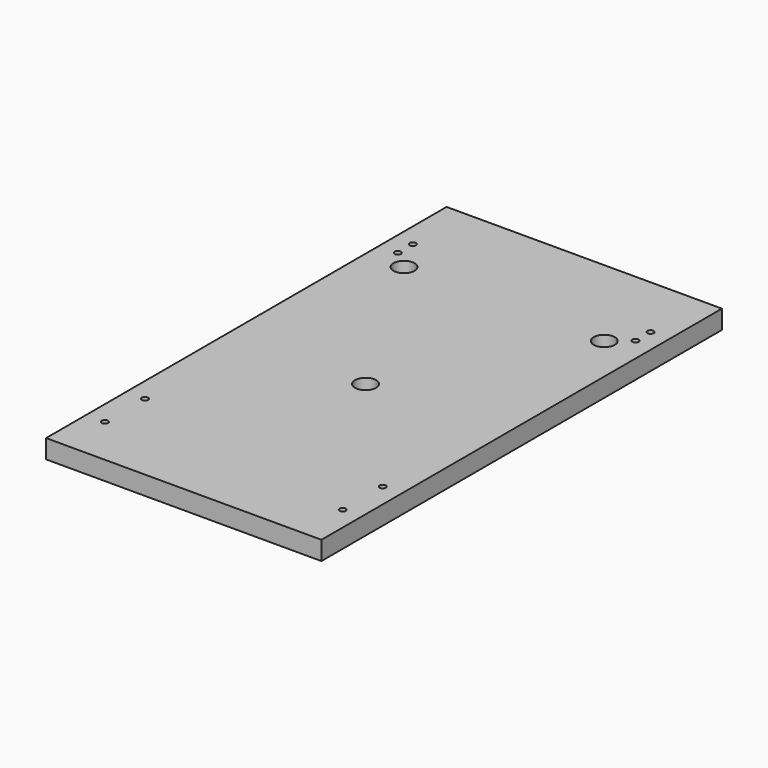
from build123d import *

# Parameters (mm, degrees)
F0_W     = 279.4
F0_H     = 508
F1_DEPTH = 19.05
F2_D     = 6.35
F3_D     = 6.35
F4_D     = 21.336


with BuildPart() as f1:
    # F0 (on Top) → F1 (new body)
    with BuildSketch(Plane.XY):
        with Locations((139.7, 254)):
            Rectangle(F0_W, F0_H)
    extrude(amount=F1_DEPTH)

    # F2 (through all)
    with Locations(Plane(origin=(0, 0, 0), x_dir=(1, 0, 0), z_dir=(0, 0, -1))):
        with Locations((19.05, -101.6), (260.35, -101.6), (260.35, -50.8), (19.05, -50.8)):
            Hole(F2_D / 2)

    # F3 (through all)
    with Locations(Plane(origin=(0, 0, 0), x_dir=(1, 0, 0), z_dir=(0, 0, -1))):
        with Locations((19.05, -441.325), (19.05, -422.275), (260.35, -422.275), (260.35, -441.325)):
            Hole(F3_D / 2)

    # F4 (through all)
    with Locations(Plane(origin=(0, 0, 0), x_dir=(1, 0, 0), z_dir=(0, 0, -1))):
        with Locations((38.1, -406.4), (241.3, -406.4), (139.7, -230.632)):
            Hole(F4_D / 2)


solid = f1.part
